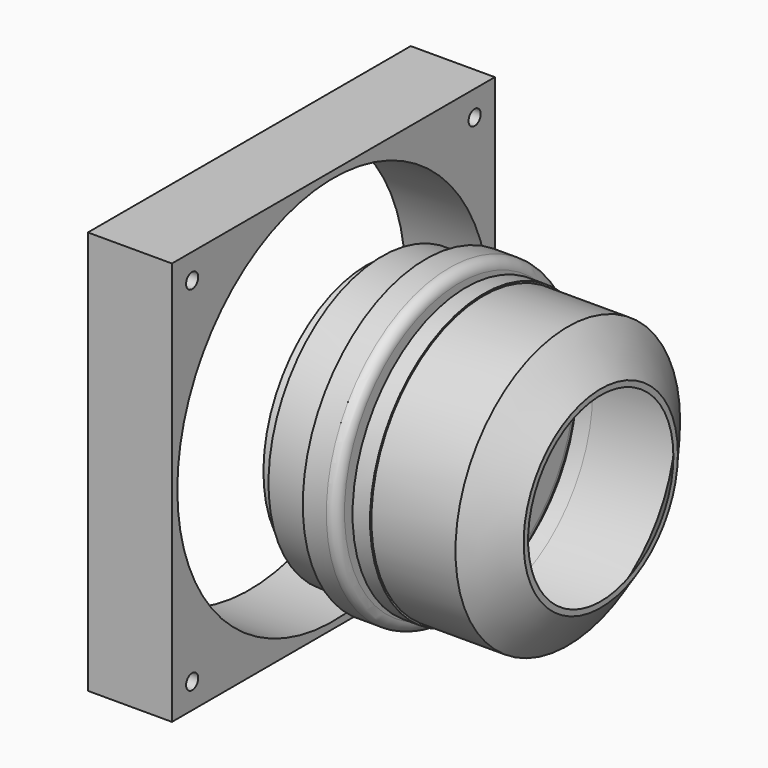
from build123d import *

# Parameters (mm, degrees)
F0_W          = 25
F0_H          = 60
F1_DEPTH      = 60
F0_W_2        = 4.5
F0_H_2        = 38.5
F3_R          = 3
F4_R          = 58
F4_R_2        = 2.25
F5_DEPTH      = 25
F7_DEPTH      = 5
F7_DEPTH_BACK = 5


with BuildPart() as f1:
    # F0 (on Top) → F1 (new body, symmetric)
    with BuildSketch(Plane.XY):
        with Locations((0, 30)):
            Rectangle(F0_W, F0_H)
        with Locations((0, -30)):
            Rectangle(F0_W, F0_H)
    extrude(amount=F1_DEPTH, both=True)

    # F4 (on face) → F5 (cut)
    with BuildSketch(Plane(origin=(-12.5, 0, 0), x_dir=(0, -1, 0), z_dir=(-1, 0, 0))):
        Circle(F4_R)
        with Locations((-52.5, 52.5)):
            Circle(F4_R_2)
        with Locations((-52.5, -52.5)):
            Circle(F4_R_2)
        with Locations((52.5, -52.5)):
            Circle(F4_R_2)
        with Locations((52.5, 52.5)):
            Circle(F4_R_2)
    extrude(amount=-F5_DEPTH, mode=Mode.SUBTRACT)


with BuildPart() as f2:
    # F0 (on Top) → F2 (revolve)
    with BuildSketch(Plane.XY):
        with Locations((24.75, 19.25)):
            Rectangle(F0_W_2, F0_H_2)
        Polygon((27, 38.5), (27, 0), (40, 0), (40, 42.25), (27, 42.25), align=None)
        Polygon((40, 42.25), (40, 0), (50, 0), (50, 45.75), (40, 45.75), align=None)
        Polygon((52, 42.25), (52, 41), (57, 41), (57, 40.75), (81.699646, 40.75), (92, 27), (92, 28.667925), (82.2, 41.75), (57.2, 41.75), (57.2, 42.25), align=None)
    revolve(axis=Axis((21.535583, 0, 0), (1, 0, 0)))

    # F3
    f3_edges = [f2.edges().sort_by_distance(p)[0] for p in [
        (50, -45.75, 0),
    ]]
    fillet(f3_edges, radius=F3_R)

    # F6 (on face) → F7 (join, two sides)
    with BuildSketch(Plane(origin=(22.5, 0, 0), x_dir=(0, -1, 0), z_dir=(-1, 0, 0))) as f7_sk:
        with BuildLine():
            ThreePointArc((-9.718138, -37.253292), (-12.351339, -36.464975), (-14.921583, -35.490792))
            ThreePointArc((-14.921583, -35.490792), (0, -42.25), (14.921583, -35.490792))
            ThreePointArc((14.921583, -35.490792), (12.351339, -36.464975), (9.718138, -37.253292))
            ThreePointArc((9.718138, -37.253292), (0, -40.15), (-9.718138, -37.253292))
        make_face()
        with BuildLine():
            ThreePointArc((14.921583, -35.490792), (18.577082, -29.393893), (19.85, -22.4))
            ThreePointArc((19.85, -22.4), (-6.993893, -3.822918), (-14.921583, -35.490792))
            ThreePointArc((-14.921583, -35.490792), (-12.351339, -36.464975), (-9.718138, -37.253292))
            ThreePointArc((-9.718138, -37.253292), (-8.442913, -6.786553), (17.75, -22.4))
            ThreePointArc((17.75, -22.4), (15.613447, -30.842913), (9.718138, -37.253292))
            ThreePointArc((9.718138, -37.253292), (12.351339, -36.464975), (14.921583, -35.490792))
        make_face()
        with BuildLine():
            ThreePointArc((9.718138, -37.253292), (0, -38.5), (-9.718138, -37.253292))
            ThreePointArc((-9.718138, -37.253292), (0, -40.15), (9.718138, -37.253292))
        make_face()
    extrude(amount=F7_DEPTH)
    extrude(f7_sk.sketch, amount=-F7_DEPTH_BACK)


solid = Compound([f1.part, f2.part])
